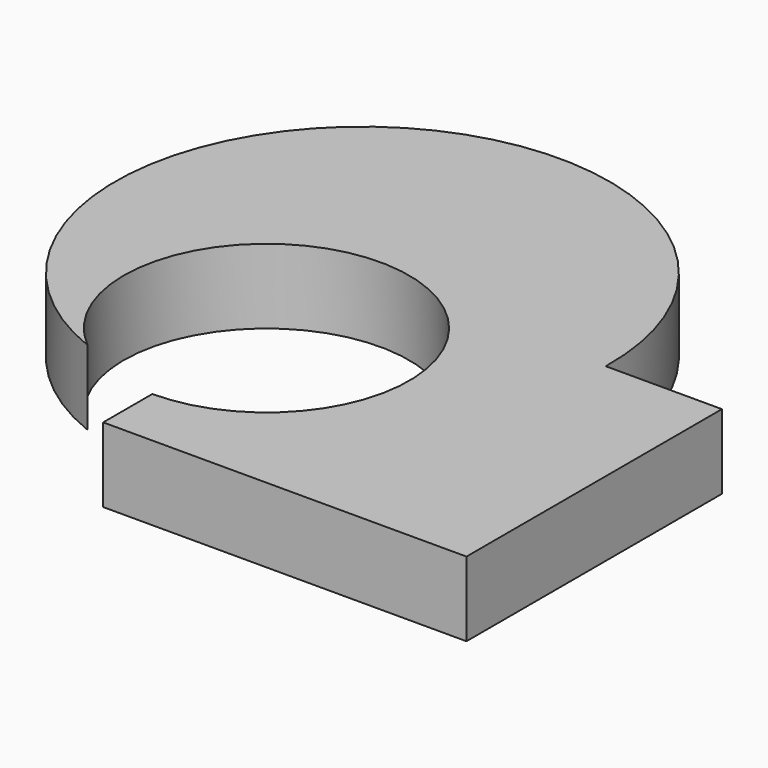
from build123d import *

# Parameters (mm, degrees)
F0_W     = 24.360565
F0_H     = 21.410812
F1_DEPTH = 5
F2_R     = 16.571277
F3_DEPTH = 5
F4_R     = 9.566685
F5_DEPTH = 6


with BuildPart() as f1:
    # F0 (on Top) → F1 (new body)
    with BuildSketch(Plane.XY):
        with Locations((12.180282, -10.705406)):
            Rectangle(F0_W, F0_H)
    extrude(amount=F1_DEPTH)

    # F2 (on Top) → F3 (join)
    with BuildSketch(Plane.XY):
        with Locations((0, 0.314523)):
            Circle(F2_R)
    extrude(amount=F3_DEPTH)

    # F4 (on face) → F5 (cut)
    with BuildSketch(Plane.XY.offset(5)):
        with Locations((0, -7.725909)):
            Circle(F4_R)
    extrude(amount=-F5_DEPTH, mode=Mode.SUBTRACT)


solid = f1.part
